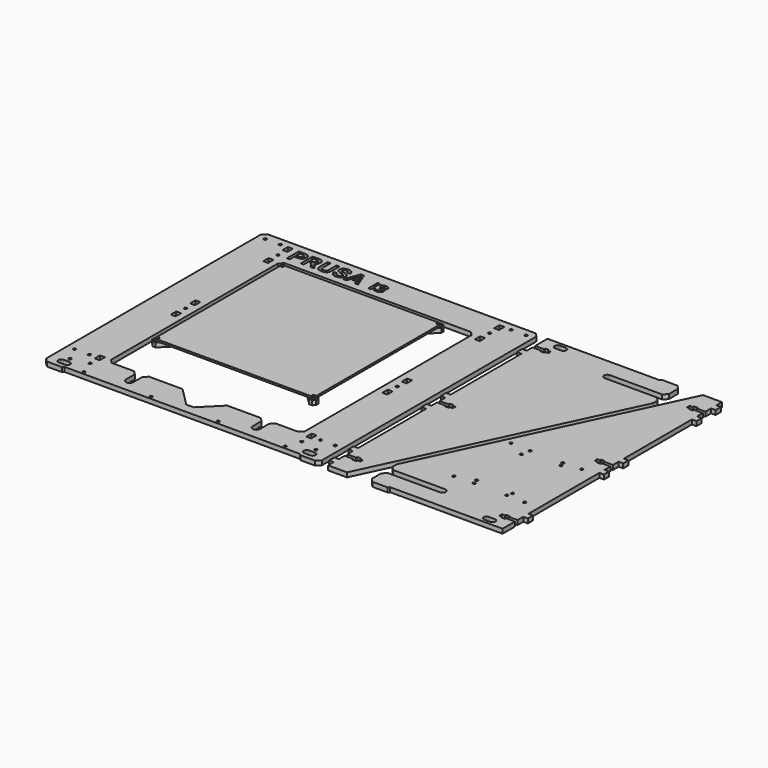
from build123d import *

# Parameters (mm, degrees)
F0_R      = 1.8000001267
F0_R_2    = 1.5000000378
F0_R_3    = 1.4999998994
F0_R_4    = 1.7999999046
F0_R_5    = 1.4999999613
F0_R_6    = 1.8000000971
F0_R_7    = 1.4999999898
F0_R_8    = 1.5000000892
F0_R_9    = 1.8000000239
F0_R_10   = 1.7999997796
F1_DEPTH  = 6
F0_R_11   = 1.7999994971
F0_R_12   = 1.7999997377
F0_R_13   = 1.7999997231
F0_R_14   = 1.7999999497
F0_R_15   = 1.7999998875
F0_W      = 6.5
F0_H      = 8.999999
F0_R_16   = 1.8000002366
F0_R_17   = 1.7999995187
F0_R_18   = 1.7999999665
F0_R_19   = 1.7999999244
F0_R_20   = 1.7992771584
F0_R_21   = 1.7999998402
F0_R_22   = 1.7999999635
F0_R_23   = 1.8000000095
F0_R_24   = 1.8000000791
F0_R_25   = 1.7999999132
F0_W_2    = 3.520249
F0_H_2    = 11.294971
F0_W_3    = 3.721407
F0_H_3    = 2.745794
F0_R_26   = 1.7999997826
F0_R_27   = 1.7999998721
F0_R_28   = 1.7999995143
F2_DEPTH  = 6
F3_DEPTH  = 6
F4_DEPTH  = 6
F20_R     = 1.8000001267
F20_R_2   = 1.5000000378
F20_R_3   = 1.4999998994
F20_R_4   = 1.7999999046
F20_R_5   = 1.8000000971
F20_R_6   = 1.4999999613
F20_R_7   = 1.7999997796
F20_R_8   = 1.8000000239
F20_R_9   = 1.4999999898
F20_R_10  = 1.5000000892
F21_DEPTH = 2.5


with BuildPart() as f1:
    # F0 (on Top) → F1 (new body)
    with BuildSketch(Plane.XY):
        Polygon((-250.541717, 132.96815), (-230.541719, 112.968151), (-230.541719, 92.968153), (-240.541718, 82.968154), (-240.541718, 44.968157), (-230.541719, 34.968158), (-230.541719, 24.968159), (-240.541718, 14.968159), (-240.541718, -23.031838), (-230.541719, -33.031837), (-230.541719, -53.031835), (-250.541717, -73.031834), (-250.541717, -77.031833), (-247.541717, -80.031833), (-245.471364, -80.031833), (-243.541718, -80.031833), (-218.54172, -55.031835), (-62.541732, -55.031835), (-37.541734, -80.031833), (-35.471381, -80.031833), (-33.541734, -80.031833), (-30.541735, -77.031833), (-30.541735, -73.031834), (-50.541733, -53.031835), (-70.541732, -33.031837), (-70.541732, -13.031838), (-50.541733, 6.96816), (-40.541734, 16.968159), (-40.541734, 42.968157), (-50.541733, 52.968156), (-70.541732, 72.968155), (-70.541732, 92.968153), (-30.541735, 132.96815), (-30.541735, 135.96815), (-30.541735, 136.96815), (-33.541734, 139.968149), (-37.541734, 139.968149), (-60.541732, 116.968151), (-62.541732, 114.968151), (-218.54172, 114.968151), (-243.541718, 139.968149), (-245.471364, 139.968149), (-245.541718, 139.968149), (-247.541717, 139.968149), (-250.541717, 136.96815), (-250.541717, 134.96815), align=None)
        with Locations((-245.0521000064, -74.521451574)):
            Circle(F0_R, mode=Mode.SUBTRACT)
        with Locations((-235.5417180947, -5.0318390947)):
            Circle(F0_R_2, mode=Mode.SUBTRACT)
        Polygon((-228.072453, 10.663678), (-227.576995, 10.831863), (-227.063824, 10.933939), (-226.541719, 10.96816), (-224.541719, 10.96816), (-224.019614, 10.933939), (-223.506443, 10.831863), (-223.010986, 10.663678), (-222.541719, 10.432261), (-222.106674, 10.141573), (-221.713292, 9.796587), (-221.368306, 9.403205), (-221.077618, 8.96816), (-220.846201, 8.498894), (-220.678016, 8.003436), (-220.57594, 7.490265), (-220.54172, 6.96816), (-220.54172, -16.031838), (-220.57594, -16.553943), (-220.678016, -17.067114), (-220.846201, -17.562572), (-221.077618, -18.031838), (-221.368306, -18.466884), (-221.713292, -18.860265), (-222.106674, -19.205251), (-222.541719, -19.49594), (-223.010986, -19.727356), (-223.506443, -19.895541), (-224.019614, -19.997617), (-224.541719, -20.031838), (-226.541719, -20.031838), (-227.063824, -19.997617), (-227.576995, -19.895541), (-228.072453, -19.727356), (-228.541719, -19.49594), (-228.976765, -19.205251), (-229.370146, -18.860265), (-229.715132, -18.466884), (-230.00582, -18.031838), (-230.237237, -17.562572), (-230.405422, -17.067114), (-230.507498, -16.553943), (-230.541719, -16.031838), (-230.541719, 6.96816), (-230.507498, 7.490265), (-230.405422, 8.003436), (-230.237237, 8.498894), (-230.00582, 8.96816), (-229.715132, 9.403205), (-229.370146, 9.796587), (-228.976765, 10.141573), (-228.541719, 10.432261), align=None, mode=Mode.SUBTRACT)
        with Locations((-215.5417201006, -5.0318391006)):
            Circle(F0_R_3, mode=Mode.SUBTRACT)
        with Locations((-36.0313519046, -74.5422155616)):
            Circle(F0_R_4, mode=Mode.SUBTRACT)
        Polygon((-112.541728, -5.031839), (-112.471375, -5.031839), (-72.471378, -45.031836), (-72.541731, -45.031836), (-208.471367, -45.031836), (-208.54172, -45.031836), (-168.541724, -5.031839), (-168.47137, -5.031839), align=None, mode=Mode.SUBTRACT)
        Polygon((-180.541723, 54.968156), (-160.541724, 34.968158), (-160.541724, 24.968159), (-180.541723, 4.96816), (-200.541721, 4.96816), (-220.54172, 24.968159), (-220.54172, 34.968158), (-200.541721, 54.968156), align=None, mode=Mode.SUBTRACT)
        Polygon((-220.57594, 77.497296), (-220.54172, 76.975191), (-220.54172, 53.975193), (-220.57594, 53.453088), (-220.678016, 52.939917), (-220.846201, 52.44446), (-221.077618, 51.975193), (-221.368306, 51.540148), (-221.713292, 51.146766), (-222.106674, 50.80178), (-222.541719, 50.511092), (-223.010986, 50.279675), (-223.506443, 50.11149), (-224.019614, 50.009414), (-224.541719, 49.975193), (-226.541719, 49.975193), (-227.063824, 50.009414), (-227.576995, 50.11149), (-228.072453, 50.279675), (-228.541719, 50.511092), (-228.976765, 50.80178), (-229.370146, 51.146766), (-229.715132, 51.540148), (-230.00582, 51.975193), (-230.237237, 52.44446), (-230.405422, 52.939917), (-230.507498, 53.453088), (-230.541719, 53.975193), (-230.541719, 76.975191), (-230.507498, 77.497296), (-230.405422, 78.010467), (-230.237237, 78.505925), (-230.00582, 78.975191), (-229.715132, 79.410237), (-229.370146, 79.803618), (-228.976765, 80.148604), (-228.541719, 80.439293), (-228.072453, 80.670709), (-227.576995, 80.838894), (-227.063824, 80.94097), (-226.541719, 80.975191), (-224.541719, 80.975191), (-224.019614, 80.94097), (-223.506443, 80.838894), (-223.010986, 80.670709), (-222.541719, 80.439293), (-222.106674, 80.148604), (-221.713292, 79.803618), (-221.368306, 79.410237), (-221.077618, 78.975191), (-220.846201, 78.505925), (-220.678016, 78.010467), align=None, mode=Mode.SUBTRACT)
        with Locations((-215.5417200387, 64.9681549613)):
            Circle(F0_R_5, mode=Mode.SUBTRACT)
        with Locations((-140.5047099189, 8.9745649783)):
            Circle(F0_R_6, mode=Mode.SUBTRACT)
        Polygon((-80.471377, 44.897803), (-70.541732, 34.968158), (-70.541732, 24.968159), (-80.471377, 15.038513), (-90.54173, 4.96816), (-100.541729, 4.96816), (-120.541728, 24.968159), (-120.541728, 34.968158), (-100.541729, 54.968156), (-90.54173, 54.968156), align=None, mode=Mode.SUBTRACT)
        with Locations((-65.5417320298, 29.9681581111)):
            Circle(F0_R_7, mode=Mode.SUBTRACT)
        Polygon((-60.23725, 16.300302), (-60.405436, 16.795759), (-60.507512, 17.308931), (-60.541732, 17.831036), (-60.541732, 40.831034), (-60.507512, 41.353138), (-60.405436, 41.86631), (-60.23725, 42.361767), (-60.005834, 42.831034), (-59.715146, 43.266079), (-59.37016, 43.659461), (-58.976778, 44.004447), (-58.541732, 44.295135), (-58.072466, 44.526551), (-57.577009, 44.694737), (-57.063837, 44.796813), (-56.541733, 44.831033), (-54.541733, 44.831033), (-54.019628, 44.796813), (-53.506457, 44.694737), (-53.010999, 44.526551), (-52.541733, 44.295135), (-52.106687, 44.004447), (-51.713306, 43.659461), (-51.36832, 43.266079), (-51.077631, 42.831034), (-50.846215, 42.361767), (-50.67803, 41.86631), (-50.575954, 41.353138), (-50.541733, 40.831034), (-50.541733, 17.831036), (-50.575954, 17.308931), (-50.67803, 16.795759), (-50.846215, 16.300302), (-51.077631, 15.831036), (-51.36832, 15.39599), (-51.713306, 15.002609), (-52.106687, 14.657622), (-52.541733, 14.366934), (-53.010999, 14.135518), (-53.506457, 13.967333), (-54.019628, 13.865256), (-54.541733, 13.831036), (-56.541733, 13.831036), (-57.063837, 13.865256), (-57.577009, 13.967333), (-58.072466, 14.135518), (-58.541732, 14.366934), (-58.976778, 14.657622), (-59.37016, 15.002609), (-59.715146, 15.39599), (-60.005834, 15.831036), align=None, mode=Mode.SUBTRACT)
        with Locations((-45.5417337398, 29.9681580892)):
            Circle(F0_R_8, mode=Mode.SUBTRACT)
        with Locations((-140.5047100183, 49.9543580054)):
            Circle(F0_R_9, mode=Mode.SUBTRACT)
        Polygon((-168.541724, 64.968155), (-208.54172, 104.968152), (-72.541731, 104.968152), (-100.541729, 76.968154), (-102.541729, 74.968155), (-112.541728, 64.968155), align=None, mode=Mode.SUBTRACT)
        with Locations((-245.0520997715, 134.4785323957)):
            Circle(F0_R_10, mode=Mode.SUBTRACT)
        with Locations((-36.0313519046, 134.4785324384)):
            Circle(F0_R_4, mode=Mode.SUBTRACT)
    extrude(amount=F1_DEPTH)


with BuildPart() as f2:
    # F0 (on Top) → F2 (new body)
    with BuildSketch(Plane.XY):
        Polygon((-310.471359, -180.223573), (-305.471359, -185.031825), (-285.471361, -185.031825), (-283.471361, -183.031825), (32.528614, -183.031825), (34.528614, -185.031825), (54.528612, -185.031825), (59.528612, -180.031825), (59.528612, 179.968146), (54.528612, 184.968146), (-305.471359, 184.968146), (-310.471359, 179.968146), align=None)
        Polygon((-298.308593, -176.030281), (-298.44489, -174.995005), (-298.308593, -173.959729), (-297.908992, -172.995005), (-297.273317, -172.166578), (-296.44489, -171.530903), (-295.480166, -171.131302), (-294.44489, -170.995005), (-286.448921, -170.995005), (-285.413645, -171.131302), (-284.448921, -171.530903), (-283.620494, -172.166578), (-282.98482, -172.995005), (-282.585218, -173.959729), (-282.448922, -174.995005), (-282.585218, -176.030281), (-282.98482, -176.995004), (-283.620494, -177.823432), (-284.448921, -178.459106), (-285.413645, -178.858708), (-286.38206, -178.995004), (-294.44489, -178.995004), (-295.480166, -178.858708), (-296.44489, -178.459106), (-297.273317, -177.823432), (-297.908992, -176.995004), align=None, mode=Mode.SUBTRACT)
        with Locations((-290.4955435214, -165.0249841753)):
            Circle(F0_R_11, mode=Mode.SUBTRACT)
        with Locations((-260.4713627791, -179.0318247377)):
            Circle(F0_R_12, mode=Mode.SUBTRACT)
        with Locations((-300.5024655416, -145.0111407047)):
            Circle(F0_R_13, mode=Mode.SUBTRACT)
        with Locations((-280.4886212463, -145.0111409312)):
            Circle(F0_R_14, mode=Mode.SUBTRACT)
        with Locations((-267.4881752491, -160.021523869)):
            Circle(F0_R_15, mode=Mode.SUBTRACT)
        with Locations((-267.471362, -143.8818855)):
            Rectangle(F0_W, F0_H, mode=Mode.SUBTRACT)
        with Locations((-170.47137, -179.031825)):
            Circle(F0_R_16, mode=Mode.SUBTRACT)
        with Locations((-80.4713767214, -179.0318250102)):
            Circle(F0_R_17, mode=Mode.SUBTRACT)
        with Locations((-267.471362, -16.1818385)):
            Rectangle(F0_W, F0_H, mode=Mode.SUBTRACT)
        with Locations((-267.4461272491, -0.034967869)):
            Circle(F0_R_15, mode=Mode.SUBTRACT)
        with BuildLine():
            Line((-220.471366, -145.031828), (-230.471365, -145.031828))
            Line((-230.471365, -145.031828), (-250.471364, -145.031828))
            Line((-250.471364, -145.031828), (-255.471363, -140.031828))
            Line((-255.471363, -140.031828), (-255.471363, 139.968149))
            Line((-255.471363, 139.968149), (-250.471364, 144.968149))
            Line((-250.471364, 144.968149), (-0.471384, 144.968149))
            Line((-0.471384, 144.968149), (4.528616, 139.968149))
            Line((4.528616, 139.968149), (4.528616, -140.031828))
            Line((4.528616, -140.031828), (-0.471384, -145.031828))
            Line((-0.471384, -145.031828), (-20.471382, -145.031828))
            Line((-20.471382, -145.031828), (-30.471381, -145.031828))
            Line((-30.471381, -145.031828), (-35.471381, -150.031827))
            Line((-35.471381, -150.031827), (-35.471381, -151.031827))
            Line((-35.471381, -151.031827), (-35.471381, -165.09737))
            ThreePointArc((-35.471381, -165.09737), (-40.4713805, -170.040455), (-45.47138, -165.09737))
            Line((-45.47138, -165.09737), (-45.47138, -151.031827))
            Line((-45.47138, -151.031827), (-45.47138, -150.031827))
            Line((-45.47138, -150.031827), (-50.47138, -145.031828))
            Line((-50.47138, -145.031828), (-95.471376, -145.031828))
            Line((-95.471376, -145.031828), (-120.471374, -170.031826))
            Line((-120.471374, -170.031826), (-130.471373, -170.031826))
            Line((-130.471373, -170.031826), (-155.471371, -145.031828))
            Line((-155.471371, -145.031828), (-200.471368, -145.031828))
            Line((-200.471368, -145.031828), (-205.471367, -150.031827))
            Line((-205.471367, -150.031827), (-205.471367, -151.031827))
            Line((-205.471367, -151.031827), (-205.471367, -165.09737))
            ThreePointArc((-205.471367, -165.09737), (-210.4713665, -170.040455), (-215.471366, -165.09737))
            Line((-215.471366, -165.09737), (-215.471366, -151.031827))
            Line((-215.471366, -151.031827), (-215.471366, -150.031827))
            Line((-215.471366, -150.031827), (-220.471366, -145.031828))
        make_face(mode=Mode.SUBTRACT)
        with Locations((9.5286156687, -179.0318249665)):
            Circle(F0_R_18, mode=Mode.SUBTRACT)
        Polygon((39.808295, -178.995004), (39.528613, -179.031825), (39.248931, -178.995004), (35.092604, -178.995004), (34.057328, -178.858708), (33.092604, -178.459106), (32.264177, -177.823432), (31.628502, -176.995004), (31.228901, -176.030281), (31.092604, -174.995005), (31.228901, -173.959729), (31.628502, -172.995005), (32.264177, -172.166578), (33.092604, -171.530903), (34.057328, -171.131302), (35.092604, -170.995005), (43.088573, -170.995005), (44.123849, -171.131302), (45.088573, -171.530903), (45.917, -172.166578), (46.552674, -172.995005), (46.952276, -173.959729), (47.088572, -174.995005), (46.952276, -176.030281), (46.552674, -176.995004), (45.917, -177.823432), (45.088573, -178.459106), (44.123849, -178.858708), (43.155434, -178.995004), align=None, mode=Mode.SUBTRACT)
        with Locations((39.5322381852, -165.0644330941)):
            Circle(F0_R_19, mode=Mode.SUBTRACT)
        with Locations((16.5286146148, -160.0318267747)):
            Circle(F0_R_20, mode=Mode.SUBTRACT)
        with Locations((16.528615, -143.8818855)):
            Rectangle(F0_W, F0_H, mode=Mode.SUBTRACT)
        with Locations((29.5428157968, -145.040793043)):
            Circle(F0_R_21, mode=Mode.SUBTRACT)
        with Locations((49.5216601809, -145.085589165)):
            Circle(F0_R_22, mode=Mode.SUBTRACT)
        with Locations((16.528615, -16.1818385)):
            Rectangle(F0_W, F0_H, mode=Mode.SUBTRACT)
        with Locations((16.5278919623, -0.0321059912)):
            Circle(F0_R_23, mode=Mode.SUBTRACT)
        with Locations((-267.471362, 16.1181595)):
            Rectangle(F0_W, F0_H, mode=Mode.SUBTRACT)
        with Locations((-267.471362, 138.9109205)):
            Rectangle(F0_W, F0_H, mode=Mode.SUBTRACT)
        with Locations((-267.4461271042, 154.9631776061)):
            Circle(F0_R_24, mode=Mode.SUBTRACT)
        with Locations((-300.466911165, 174.9816258191)):
            Circle(F0_R_22, mode=Mode.SUBTRACT)
        with Locations((-280.4484628948, 174.9816252938)):
            Circle(F0_R_25, mode=Mode.SUBTRACT)
        with Locations((-267.471362, 171.2109185)):
            Rectangle(F0_W, F0_H, mode=Mode.SUBTRACT)
        Polygon((-245.371364, 170.968147), (-246.171364, 171.368147), (-247.171364, 171.568147), (-251.471364, 171.568147), (-251.471364, 154.968148), (-255.471363, 154.968148), (-255.471363, 174.968147), (-247.071364, 174.968147), (-245.671364, 174.868147), (-244.171364, 174.668147), (-243.271364, 174.368147), (-241.971364, 173.468147), (-241.171364, 172.468147), (-240.471364, 171.168147), (-240.171364, 169.668147), (-240.171364, 167.968147), (-240.371364, 166.668147), (-240.971364, 165.368147), (-241.871364, 164.268147), (-243.371364, 163.268147), (-245.371364, 162.668148), (-247.071364, 162.568148), (-249.971364, 162.568148), (-249.971364, 165.968147), (-248.371364, 165.968147), (-247.071364, 165.968147), (-246.171364, 166.168147), (-245.271364, 166.668147), (-244.771364, 167.268147), (-244.371364, 168.068147), (-244.271364, 168.968147), (-244.471364, 169.768147), (-244.771364, 170.368147), align=None, mode=Mode.SUBTRACT)
        Polygon((-225.571366, 174.668147), (-224.671366, 174.368147), (-223.371366, 173.468147), (-222.571366, 172.468147), (-221.871366, 171.168147), (-221.571366, 169.668147), (-221.571366, 167.968147), (-221.771366, 166.668147), (-222.371366, 165.368147), (-223.271366, 164.268147), (-224.771366, 163.268147), (-224.000963, 162.579439), (-223.042386, 161.620862), (-218.861361, 154.972013), (-223.735825, 154.972013), (-228.977402, 162.568148), (-231.371365, 162.568148), (-231.371365, 165.968147), (-229.771365, 165.968147), (-228.471365, 165.968147), (-227.571365, 166.168147), (-226.671365, 166.668147), (-226.171366, 167.268147), (-225.771366, 168.068147), (-225.671366, 168.968147), (-225.871366, 169.768147), (-226.171366, 170.368147), (-226.771365, 170.968147), (-227.571365, 171.368147), (-228.571365, 171.568147), (-232.871365, 171.568147), (-232.871365, 154.968148), (-236.871365, 154.968148), (-236.871365, 174.968147), (-228.471365, 174.968147), (-227.071365, 174.868147), align=None, mode=Mode.SUBTRACT)
        Polygon((-204.890407, 161.30389), (-204.768035, 163.017091), (-204.792509, 174.960546), (-200.729777, 174.960546), (-200.705303, 166.1498), (-200.705303, 162.233913), (-201.047943, 159.468318), (-201.782171, 157.422532), (-202.932463, 156.296714), (-204.254075, 155.440114), (-206.358864, 154.779308), (-208.977613, 154.583514), (-211.596363, 154.926154), (-213.334038, 155.562486), (-214.582227, 156.394612), (-215.51225, 157.495955), (-216.099633, 158.695195), (-216.491221, 160.359447), (-216.71149, 163.981642), (-216.671366, 174.968147), (-212.624283, 174.960546), (-212.624283, 170.13911), (-212.648757, 162.184965), (-212.330592, 160.27597), (-211.52294, 159.052255), (-210.299225, 158.318027), (-208.806293, 158.073284), (-207.36231, 158.171181), (-206.16307, 158.685141), (-205.257521, 159.566216), align=None, mode=Mode.SUBTRACT)
        Polygon((-186.984419, 162.909443), (-191.551909, 164.025941), (-194.393903, 165.294688), (-195.814901, 166.563435), (-196.626899, 168.339682), (-196.829898, 170.318927), (-196.423899, 171.638425), (-195.205902, 173.465421), (-193.328156, 174.632668), (-190.689161, 175.241667), (-189.014415, 175.241667), (-186.882919, 175.089417), (-184.852924, 174.328169), (-183.279677, 173.211671), (-182.163179, 171.232426), (-181.75718, 169.25318), (-185.825395, 169.00272), (-186.119086, 170.294962), (-186.647731, 171.146668), (-187.793128, 171.792789), (-189.085371, 171.998373), (-190.465721, 171.939635), (-191.493641, 171.675312), (-192.345346, 171.176037), (-192.815253, 170.471177), (-192.820657, 169.709929), (-192.516157, 168.796431), (-190.181662, 167.781433), (-186.62917, 166.867935), (-183.634926, 165.700687), (-182.01093, 163.924441), (-181.300431, 161.894445), (-181.300431, 159.356951), (-182.315429, 157.428455), (-184.446924, 155.550709), (-187.745667, 154.73871), (-190.283162, 154.63721), (-192.922157, 155.195459), (-195.408901, 156.717956), (-196.880648, 159.103201), (-197.489647, 161.386946), (-193.581905, 161.742196), (-193.378906, 160.879447), (-192.465408, 159.306201), (-190.993661, 158.392703), (-189.065165, 158.037453), (-187.441168, 158.189703), (-186.223171, 158.900202), (-185.411172, 159.965949), (-185.360423, 161.133197), (-185.715672, 162.148195), align=None, mode=Mode.SUBTRACT)
        Polygon((-175.565693, 154.94171), (-179.930184, 154.94171), (-172.06395, 174.886418), (-167.800959, 174.886418), (-159.883976, 154.99246), (-164.197717, 155.04321), (-165.923213, 159.55995), (-172.774449, 159.55995), (-171.607201, 162.858693), (-167.242711, 162.909443), (-170.033955, 170.217428), align=None, mode=Mode.SUBTRACT)
        with Locations((-144.4952965, 160.6156335)):
            Rectangle(F0_W_2, F0_H_2, mode=Mode.SUBTRACT)
        with Locations((-144.4952965, 169.245273)):
            Rectangle(F0_W_3, F0_H_3, mode=Mode.SUBTRACT)
        Polygon((-129.311708, 160.611862), (-129.237531, 159.816034), (-129.339367, 158.767503), (-129.644874, 157.814521), (-130.14651, 156.977205), (-130.83673, 156.275669), (-131.700448, 155.716201), (-132.702462, 155.305086), (-133.890546, 155.052383), (-135.312475, 154.968148), (-136.938076, 155.041068), (-138.314745, 155.259826), (-140.35146, 155.913586), (-140.35146, 159.162273), (-139.989378, 159.162273), (-139.092971, 158.674468), (-138.053241, 158.257067), (-136.99088, 157.970418), (-136.026583, 157.874868), (-134.844785, 157.970418), (-134.257658, 158.122543), (-133.773624, 158.387819), (-133.225471, 159.006377), (-133.070831, 159.45018), (-133.019285, 160.047365), (-133.092204, 160.634492), (-133.310962, 161.068237), (-133.650415, 161.376259), (-134.085417, 161.586216), (-135.24207, 161.777316), (-136.428897, 161.797431), (-137.0726, 161.797431), (-137.0726, 164.432589), (-136.479186, 164.432589), (-135.221955, 164.492936), (-134.246343, 164.734325), (-133.617727, 165.267391), (-133.448001, 165.669705), (-133.391425, 166.192714), (-133.444229, 166.603829), (-133.60264, 166.931966), (-134.125649, 167.379541), (-134.970508, 167.620929), (-135.795252, 167.681276), (-136.921732, 167.550524), (-138.038154, 167.218615), (-138.923245, 166.801214), (-139.607179, 166.413987), (-139.918973, 166.413987), (-139.918973, 169.622442), (-137.831968, 170.261116), (-136.505588, 170.491189), (-135.15155, 170.567881), (-133.903119, 170.510048), (-132.833214, 170.33655), (-131.924236, 170.052415), (-131.158581, 169.662674), (-130.489734, 169.125836), (-130.011986, 168.46076), (-129.725337, 167.685048), (-129.629788, 166.816301), (-129.814601, 165.618159), (-130.36904, 164.578428), (-131.225215, 163.787629), (-132.315235, 163.336283), (-132.315235, 163.195473), (-131.274247, 162.923911), (-130.283548, 162.300324), (-129.869919, 161.851492), (-129.534238, 161.28951), align=None, mode=Mode.SUBTRACT)
        with Locations((16.528615, 16.1181595)):
            Rectangle(F0_W, F0_H, mode=Mode.SUBTRACT)
        with Locations((16.528615, 138.9109205)):
            Rectangle(F0_W, F0_H, mode=Mode.SUBTRACT)
        with Locations((16.5406584929, 154.9565645258)):
            Circle(F0_R_26, mode=Mode.SUBTRACT)
        with Locations((16.528615, 171.2109185)):
            Rectangle(F0_W, F0_H, mode=Mode.SUBTRACT)
        with Locations((29.5318830591, 174.9585058537)):
            Circle(F0_R_27, mode=Mode.SUBTRACT)
        with Locations((49.5062103181, 174.9915214958)):
            Circle(F0_R_28, mode=Mode.SUBTRACT)
    extrude(amount=F2_DEPTH)


with BuildPart() as f3:
    # F0 (on Top) → F3 (new body)
    with BuildSketch(Plane.XY):
        Polygon((71.784121, 2.231839), (83.78412, 2.231839), (83.78412, 4.031839), (88.884119, 4.031839), (88.884119, 2.231839), (92.884119, 2.231839), (92.884119, -2.16816), (88.884119, -2.16816), (88.884119, -3.96816), (83.78412, -3.96816), (83.78412, -2.16816), (71.784121, -2.16816), (71.784121, -11.71816), (65.684121, -11.71816), (65.684121, -20.518159), (71.784121, -20.518159), (71.784121, -134.510921), (65.684121, -134.510921), (65.684121, -143.31092), (71.784121, -143.31092), (71.784121, -152.853118), (83.78412, -152.853118), (83.78412, -151.053118), (88.884119, -151.053118), (88.884119, -152.853118), (92.884119, -152.853118), (92.884119, -157.253118), (88.884119, -157.253118), (88.884119, -159.053117), (83.78412, -159.053117), (83.78412, -157.253118), (71.784121, -157.253118), (71.784121, -166.810919), (65.684121, -166.810919), (65.684121, -175.610918), (71.784121, -175.610918), (71.784121, -184.968146), (97.184119, -184.968146), (249.584106, 138.031828), (249.584106, 145.631828), (244.584107, 150.631827), (174.584112, 150.631827), (173.445309, 150.781754), (172.384113, 151.221316), (171.472843, 151.920557), (170.773601, 152.831827), (170.334039, 153.893023), (170.184113, 155.031827), (170.334039, 156.170631), (170.773601, 157.231827), (171.472843, 158.143097), (172.384113, 158.842339), (173.445309, 159.2819), (174.584112, 159.431827), (244.584107, 159.431827), (249.584106, 164.431826), (249.584106, 180.031825), (244.584107, 185.031825), (224.584108, 185.031825), (222.584108, 183.031825), (71.784121, 183.031825), (71.784121, 162.237385), (83.78412, 162.237385), (83.78412, 164.037385), (88.884119, 164.037385), (88.884119, 162.237385), (92.884119, 162.237385), (92.884119, 157.837386), (88.884119, 157.837386), (88.884119, 156.037386), (83.78412, 156.037386), (83.78412, 157.837386), (71.784121, 157.837386), (71.784121, 148.281885), (65.684121, 148.281885), (65.684121, 139.481886), (71.784121, 139.481886), (71.784121, 20.581838), (65.684121, 20.581838), (65.684121, 11.781839), (71.784121, 11.781839), align=None)
        Polygon((87.857315, 176.067102), (88.256916, 177.031825), (88.892591, 177.860252), (89.721018, 178.495927), (90.685742, 178.895528), (91.721018, 179.031825), (99.783848, 179.031825), (100.752263, 178.895528), (101.716987, 178.495927), (102.545414, 177.860252), (103.181088, 177.031825), (103.58069, 176.067102), (103.716987, 175.031825), (103.58069, 173.996549), (103.181088, 173.031826), (102.545414, 172.203399), (101.716987, 171.567724), (100.752263, 171.168122), (99.716987, 171.031826), (91.721018, 171.031826), (90.685742, 171.168122), (89.721018, 171.567724), (88.892591, 172.203399), (88.256916, 173.031826), (87.857315, 173.996549), (87.721018, 175.031825), align=None, mode=Mode.SUBTRACT)
    extrude(amount=F3_DEPTH)


with BuildPart() as f4:
    # F0 (on Top) → F4 (new body)
    with BuildSketch(Plane.XY):
        Polygon((304.371359, 134.510921), (310.471359, 134.510921), (310.471359, 143.31092), (304.371359, 143.31092), (304.371359, 152.853118), (292.37136, 152.853118), (292.37136, 151.053118), (287.271361, 151.053118), (287.271361, 152.853118), (283.271361, 152.853118), (283.271361, 157.253118), (287.271361, 157.253118), (287.271361, 159.053117), (292.37136, 159.053117), (292.37136, 157.253118), (304.371359, 157.253118), (304.371359, 166.810919), (310.471359, 166.810919), (310.471359, 175.610918), (304.371359, 175.610918), (304.371359, 184.968146), (278.971361, 184.968146), (126.571374, -138.031828), (126.571374, -145.631828), (131.571373, -150.631827), (201.571368, -150.631827), (202.710171, -150.781754), (203.771367, -151.221316), (204.682637, -151.920557), (205.381879, -152.831827), (205.821441, -153.893023), (205.971367, -155.031827), (205.821441, -156.170631), (205.381879, -157.231827), (204.682637, -158.143097), (203.771367, -158.842339), (202.710171, -159.2819), (201.571368, -159.431827), (131.571373, -159.431827), (126.571374, -164.431826), (126.571374, -180.031825), (131.571373, -185.031825), (151.571372, -185.031825), (153.571371, -183.031825), (304.371359, -183.031825), (304.371359, -162.237385), (292.37136, -162.237385), (292.37136, -164.037385), (287.271361, -164.037385), (287.271361, -162.237385), (283.271361, -162.237385), (283.271361, -157.837386), (287.271361, -157.837386), (287.271361, -156.037386), (292.37136, -156.037386), (292.37136, -157.837386), (304.371359, -157.837386), (304.371359, -148.281885), (310.471359, -148.281885), (310.471359, -139.481886), (304.371359, -139.481886), (304.371359, -20.581838), (310.471359, -20.581838), (310.471359, -11.781839), (304.371359, -11.781839), (304.371359, -2.231839), (292.37136, -2.231839), (292.37136, -4.031839), (287.271361, -4.031839), (287.271361, -2.231839), (283.271361, -2.231839), (283.271361, 2.16816), (287.271361, 2.16816), (287.271361, 3.96816), (292.37136, 3.96816), (292.37136, 2.16816), (304.371359, 2.16816), (304.371359, 11.71816), (310.471359, 11.71816), (310.471359, 20.518159), (304.371359, 20.518159), align=None)
        Polygon((272.974392, -173.031826), (273.610066, -172.203399), (274.438493, -171.567724), (275.403217, -171.168122), (276.438493, -171.031826), (284.434462, -171.031826), (285.469738, -171.168122), (286.434462, -171.567724), (287.262889, -172.203399), (287.898563, -173.031826), (288.298165, -173.996549), (288.434462, -175.031825), (288.298165, -176.067102), (287.898563, -177.031825), (287.262889, -177.860252), (286.434462, -178.495927), (285.469738, -178.895528), (284.434462, -179.031825), (276.371632, -179.031825), (275.403217, -178.895528), (274.438493, -178.495927), (273.610066, -177.860252), (272.974392, -177.031825), (272.57479, -176.067102), (272.438493, -175.031825), (272.57479, -173.996549), align=None, mode=Mode.SUBTRACT)
        Polygon((191.528115, -122.666255), (191.242008, -123.039006), (190.869175, -123.325006), (190.435023, -123.504765), (189.96914, -123.566031), (189.503275, -123.504631), (189.069175, -123.324748), (188.696424, -123.038641), (188.410423, -122.665808), (188.230665, -122.231657), (188.169398, -121.765774), (188.230798, -121.299908), (188.410681, -120.865809), (188.696788, -120.493057), (189.069621, -120.207057), (189.503772, -120.027299), (189.890508, -119.97644), (189.969655, -119.966032), (190.435521, -120.027432), (190.869621, -120.207315), (191.242372, -120.493422), (191.528372, -120.866255), (191.708131, -121.300406), (191.769398, -121.766289), (191.759457, -121.841715), (191.707997, -122.232155), align=None, mode=Mode.SUBTRACT)
        Polygon((216.069049, -122.781113), (215.634949, -122.60123), (215.262198, -122.315123), (214.976197, -121.94229), (214.796439, -121.508139), (214.735172, -121.042256), (214.796572, -120.57639), (214.976455, -120.14229), (215.262562, -119.769539), (215.635395, -119.483539), (216.069546, -119.30378), (216.535429, -119.242514), (217.001295, -119.303914), (217.435395, -119.483797), (217.808146, -119.769903), (218.094146, -120.142737), (218.273905, -120.576888), (218.327665, -120.985689), (218.335172, -121.042771), (218.329941, -121.082458), (218.273772, -121.508636), (218.093889, -121.942736), (217.807782, -122.315488), (217.434949, -122.601488), (217.000797, -122.781246), (216.534914, -122.842513), (216.480479, -122.835339), align=None, mode=Mode.SUBTRACT)
        Polygon((216.146044, -113.953689), (216.084643, -114.419555), (215.904761, -114.853655), (215.618654, -115.226406), (215.245821, -115.512406), (214.811669, -115.692165), (214.345786, -115.753432), (213.879921, -115.692031), (213.520433, -115.543066), (213.445821, -115.512148), (213.257926, -115.341578), (213.073069, -115.226042), (212.787069, -114.853209), (212.607311, -114.419057), (212.546044, -113.953174), (212.607444, -113.487309), (212.787327, -113.053209), (213.073434, -112.680457), (213.446267, -112.394457), (213.880418, -112.214699), (214.346301, -112.153432), (214.812167, -112.214832), (215.246267, -112.394715), (215.356511, -112.479333), (215.431123, -112.510251), (215.619018, -112.680822), (215.905018, -113.053655), (216.084777, -113.487806), align=None, mode=Mode.SUBTRACT)
        Polygon((261.739683, -122.315488), (261.36685, -122.601488), (260.932698, -122.781246), (260.466815, -122.842513), (260.41238, -122.835339), (260.00095, -122.781113), (259.56685, -122.60123), (259.194099, -122.315123), (258.908098, -121.94229), (258.72834, -121.508139), (258.67236, -121.082458), (258.667073, -121.042256), (258.728473, -120.57639), (258.908356, -120.14229), (259.194463, -119.769539), (259.567296, -119.483539), (260.001447, -119.30378), (260.46733, -119.242514), (260.54233, -119.252398), (260.933196, -119.303914), (261.367296, -119.483797), (261.740047, -119.769903), (262.026047, -120.142737), (262.205806, -120.576888), (262.259566, -120.985689), (262.267073, -121.042771), (262.205673, -121.508636), (262.02579, -121.942736), align=None, mode=Mode.SUBTRACT)
        Polygon((286.521445, -120.90983), (286.701204, -121.343981), (286.762471, -121.809864), (286.70107, -122.275729), (286.521188, -122.709829), (286.235081, -123.082581), (285.862248, -123.368581), (285.428096, -123.548339), (284.962213, -123.609606), (284.496348, -123.548206), (284.062248, -123.368323), (283.689497, -123.082216), (283.403496, -122.709383), (283.223738, -122.275232), (283.166727, -121.841715), (283.162471, -121.809349), (283.223871, -121.343483), (283.403754, -120.909383), (283.689861, -120.536632), (284.062694, -120.250632), (284.496845, -120.070873), (284.8905, -120.019105), (284.962728, -120.009606), (285.428594, -120.071007), (285.862694, -120.25089), (286.235445, -120.536996), align=None, mode=Mode.SUBTRACT)
        Polygon((261.333645, -112.751954), (261.706478, -112.465954), (262.14063, -112.286195), (262.606513, -112.224928), (263.072378, -112.286329), (263.271694, -112.368921), (263.326754, -112.376178), (263.506478, -112.466212), (263.879229, -112.752318), (264.165229, -113.125151), (264.344988, -113.559303), (264.406255, -114.025186), (264.344855, -114.491051), (264.164972, -114.925151), (263.878865, -115.297903), (263.506032, -115.583903), (263.07188, -115.763661), (262.605997, -115.824928), (262.195192, -115.770785), (262.140132, -115.763528), (261.960408, -115.673495), (261.706032, -115.583645), (261.333281, -115.297538), (261.047281, -114.924705), (260.867522, -114.490554), (260.806255, -114.024671), (260.867655, -113.558805), (261.047538, -113.124705), align=None, mode=Mode.SUBTRACT)
        Polygon((188.386226, -26.798544), (188.206467, -26.364393), (188.1452, -25.89851), (188.206601, -25.432644), (188.386483, -24.998544), (188.67259, -24.625793), (189.045423, -24.339793), (189.479575, -24.160034), (189.945458, -24.098767), (190.411323, -24.160168), (190.845423, -24.34005), (191.218175, -24.626157), (191.504175, -24.99899), (191.683933, -25.433142), (191.737693, -25.841943), (191.7452, -25.899025), (191.6838, -26.36489), (191.503917, -26.79899), (191.21781, -27.171741), (190.844977, -27.457742), (190.410826, -27.6375), (189.944943, -27.698767), (189.890508, -27.691593), (189.479077, -27.637367), (189.044977, -27.457484), (188.672226, -27.171377), align=None, mode=Mode.SUBTRACT)
        Polygon((213.41332, -37.449924), (213.847472, -37.270165), (214.313355, -37.208898), (214.77922, -37.270298), (215.21332, -37.450181), (215.428147, -37.615073), (215.476086, -37.634938), (215.586071, -37.736288), (215.872071, -38.109121), (216.05183, -38.543273), (216.113097, -39.009156), (216.051697, -39.475021), (215.871814, -39.909121), (215.585707, -40.281872), (215.212874, -40.567872), (214.778722, -40.747631), (214.312839, -40.808898), (213.846974, -40.747498), (213.460813, -40.58748), (213.412874, -40.567615), (213.302888, -40.466264), (213.040123, -40.281508), (212.754123, -39.908675), (212.574364, -39.474523), (212.513097, -39.00864), (212.574497, -38.542775), (212.75438, -38.108675), (213.040487, -37.735924), align=None, mode=Mode.SUBTRACT)
        Polygon((215.041861, -28.017839), (214.862102, -27.583687), (214.800835, -27.117804), (214.862235, -26.651939), (215.042118, -26.217839), (215.328225, -25.845088), (215.701058, -25.559088), (216.13521, -25.379329), (216.601093, -25.318062), (217.066958, -25.379462), (217.501058, -25.559345), (217.873809, -25.845452), (218.159809, -26.218285), (218.339568, -26.652437), (218.393328, -27.061238), (218.400835, -27.11832), (218.339435, -27.584185), (218.159552, -28.018285), (217.873445, -28.391036), (217.500612, -28.677036), (217.06646, -28.856795), (216.600577, -28.918062), (216.546142, -28.910887), (216.134712, -28.856662), (215.700612, -28.676779), (215.327861, -28.390672), align=None, mode=Mode.SUBTRACT)
        Polygon((263.848888, -33.981196), (263.476055, -34.267196), (263.041903, -34.446955), (262.57602, -34.508221), (262.110155, -34.446821), (261.749688, -34.29745), (261.676055, -34.266938), (261.525285, -34.125209), (261.303304, -33.980831), (261.017304, -33.607998), (260.837545, -33.173847), (260.776278, -32.707964), (260.837678, -32.242098), (261.017561, -31.807999), (261.303668, -31.435247), (261.676501, -31.149247), (262.110653, -30.969489), (262.576536, -30.908222), (263.042401, -30.969622), (263.476501, -31.149505), (263.62485, -31.26337), (263.698482, -31.293882), (263.849252, -31.435612), (264.135252, -31.808445), (264.315011, -32.242596), (264.376278, -32.708479), (264.314878, -33.174345), (264.134995, -33.608445), align=None, mode=Mode.SUBTRACT)
        Polygon((260.434781, -28.825843), (260.380346, -28.818669), (259.968916, -28.764443), (259.534816, -28.58456), (259.162065, -28.298453), (258.876065, -27.92562), (258.696306, -27.491469), (258.642393, -27.081508), (258.635039, -27.025586), (258.696439, -26.55972), (258.876322, -26.12562), (259.162429, -25.752869), (259.535262, -25.466869), (259.969414, -25.287111), (260.435297, -25.225844), (260.901162, -25.287244), (261.335262, -25.467127), (261.708013, -25.753234), (261.994013, -26.126067), (262.173772, -26.560218), (262.227532, -26.969019), (262.235039, -27.026101), (262.173639, -27.491967), (261.993756, -27.926067), (261.707649, -28.298818), (261.334816, -28.584818), (260.900664, -28.764577), (260.54233, -28.8117), align=None, mode=Mode.SUBTRACT)
        Polygon((286.677211, -25.387494), (286.738478, -25.853377), (286.677078, -26.319242), (286.497195, -26.753342), (286.211088, -27.126094), (285.838255, -27.412094), (285.404104, -27.591852), (284.938221, -27.653119), (284.8905, -27.64683), (284.472355, -27.591719), (284.038255, -27.411836), (283.665504, -27.125729), (283.379504, -26.752896), (283.199745, -26.318745), (283.138479, -25.852862), (283.199879, -25.386996), (283.379762, -24.952896), (283.665869, -24.580145), (284.038702, -24.294145), (284.472853, -24.114386), (284.938736, -24.053119), (285.404602, -24.11452), (285.838702, -24.294403), (286.211453, -24.580509), (286.497453, -24.953342), align=None, mode=Mode.SUBTRACT)
    extrude(amount=F4_DEPTH)


with BuildPart() as f21:
    # F20 (on face) → F21 (new body)
    with BuildSketch(Plane.XY.offset(6)):
        Polygon((-40.8115007118, 136.6983822882), (-240.2719512882, 136.6983822882), (-218.54172, 114.968151), (-62.541732, 114.968151), align=None)
        Polygon((-230.541719, 112.968151), (-247.3490610719, 129.7754939122), (-247.3490610719, -69.8391779122), (-230.541719, -53.031835), (-230.541719, -33.031837), (-240.541718, -23.031838), (-240.541718, 14.968159), (-230.541719, 24.968159), (-230.541719, 34.968158), (-240.541718, 44.968157), (-240.541718, 82.968154), (-230.541719, 92.968153), align=None)
        Polygon((-218.54172, -55.031835), (-240.8115027118, -77.3016177118), (-40.2719492882, -77.3016177118), (-62.541732, -55.031835), align=None)
        Polygon((-240.2719512882, 136.6983822882), (-247.3490610719, 136.6983822882), (-247.3490610719, 129.7754939122), (-230.541719, 112.968151), (-230.541719, 92.968153), (-240.541718, 82.968154), (-240.541718, 44.968157), (-230.541719, 34.968158), (-230.541719, 24.968159), (-240.541718, 14.968159), (-240.541718, -23.031838), (-230.541719, -33.031837), (-230.541719, -53.031835), (-247.3490610719, -69.8391779122), (-247.3490610719, -77.3016177118), (-240.8115027118, -77.3016177118), (-218.54172, -55.031835), (-62.541732, -55.031835), (-40.2719492882, -77.3016177118), (-33.3490610719, -77.3016177118), (-33.3490610719, -70.2245077878), (-50.541733, -53.031835), (-70.541732, -33.031837), (-70.541732, -13.031838), (-50.541733, 6.96816), (-40.541734, 16.968159), (-40.541734, 42.968157), (-70.541732, 72.968155), (-70.541732, 92.968153), (-33.3490610719, 130.1608239281), (-33.3490610719, 136.6983822882), (-40.8115007118, 136.6983822882), (-62.541732, 114.968151), (-218.54172, 114.968151), align=None)
        with Locations((-245.0521000064, -74.521451574)):
            Circle(F20_R, mode=Mode.SUBTRACT)
        with Locations((-235.5417180947, -5.0318390947)):
            Circle(F20_R_2, mode=Mode.SUBTRACT)
        Polygon((-230.237237, 8.498894), (-230.00582, 8.96816), (-229.715132, 9.403205), (-229.370146, 9.796587), (-228.976765, 10.141573), (-228.541719, 10.432261), (-228.072453, 10.663678), (-227.576995, 10.831863), (-227.063824, 10.933939), (-226.541719, 10.96816), (-224.541719, 10.96816), (-224.019614, 10.933939), (-223.506443, 10.831863), (-223.010986, 10.663678), (-222.541719, 10.432261), (-222.106674, 10.141573), (-221.713292, 9.796587), (-221.368306, 9.403205), (-221.077618, 8.96816), (-220.846201, 8.498894), (-220.678016, 8.003436), (-220.57594, 7.490265), (-220.54172, 6.96816), (-220.54172, -16.031838), (-220.57594, -16.553943), (-220.678016, -17.067114), (-220.846201, -17.562572), (-221.077618, -18.031838), (-221.368306, -18.466884), (-221.713292, -18.860265), (-222.106674, -19.205251), (-222.541719, -19.49594), (-223.010986, -19.727356), (-223.506443, -19.895541), (-224.019614, -19.997617), (-224.541719, -20.031838), (-226.541719, -20.031838), (-227.063824, -19.997617), (-227.576995, -19.895541), (-228.072453, -19.727356), (-228.541719, -19.49594), (-228.976765, -19.205251), (-229.370146, -18.860265), (-229.715132, -18.466884), (-230.00582, -18.031838), (-230.237237, -17.562572), (-230.405422, -17.067114), (-230.507498, -16.553943), (-230.541719, -16.031838), (-230.541719, 6.96816), (-230.507498, 7.490265), (-230.405422, 8.003436), align=None, mode=Mode.SUBTRACT)
        with Locations((-215.5417201006, -5.0318391006)):
            Circle(F20_R_3, mode=Mode.SUBTRACT)
        Polygon((-200.541721, 54.968156), (-180.541723, 54.968156), (-160.541724, 34.968158), (-160.541724, 24.968159), (-180.541723, 4.96816), (-200.541721, 4.96816), (-220.54172, 24.968159), (-220.54172, 34.968158), align=None, mode=Mode.SUBTRACT)
        with Locations((-36.0313519046, -74.5422155616)):
            Circle(F20_R_4, mode=Mode.SUBTRACT)
        Polygon((-208.54172, -45.031836), (-168.541724, -5.031839), (-112.471375, -5.031839), (-72.471378, -45.031836), align=None, mode=Mode.SUBTRACT)
        with Locations((-140.5047099189, 8.9745649783)):
            Circle(F20_R_5, mode=Mode.SUBTRACT)
        Polygon((-100.541729, 54.968156), (-90.54173, 54.968156), (-70.541732, 34.968158), (-70.541732, 24.968159), (-80.471377, 15.038513), (-90.54173, 4.96816), (-100.541729, 4.96816), (-120.541728, 24.968159), (-120.541728, 34.968158), align=None, mode=Mode.SUBTRACT)
        Polygon((-60.005834, 15.831036), (-60.23725, 16.300302), (-60.405436, 16.795759), (-60.507512, 17.308931), (-60.541732, 17.831036), (-60.541732, 40.831034), (-60.507512, 41.353138), (-60.405436, 41.86631), (-60.23725, 42.361767), (-60.005834, 42.831034), (-59.715146, 43.266079), (-59.37016, 43.659461), (-58.976778, 44.004447), (-58.541732, 44.295135), (-58.072466, 44.526551), (-57.577009, 44.694737), (-57.063837, 44.796813), (-56.541733, 44.831033), (-54.541733, 44.831033), (-54.019628, 44.796813), (-53.506457, 44.694737), (-53.010999, 44.526551), (-52.541733, 44.295135), (-52.106687, 44.004447), (-51.713306, 43.659461), (-51.36832, 43.266079), (-51.077631, 42.831034), (-50.846215, 42.361767), (-50.67803, 41.86631), (-50.575954, 41.353138), (-50.541733, 40.831034), (-50.541733, 17.831036), (-50.575954, 17.308931), (-50.67803, 16.795759), (-50.846215, 16.300302), (-51.077631, 15.831036), (-51.36832, 15.39599), (-51.713306, 15.002609), (-52.106687, 14.657622), (-52.541733, 14.366934), (-53.010999, 14.135518), (-53.506457, 13.967333), (-54.019628, 13.865256), (-54.541733, 13.831036), (-56.541733, 13.831036), (-57.063837, 13.865256), (-57.577009, 13.967333), (-58.072466, 14.135518), (-58.541732, 14.366934), (-58.976778, 14.657622), (-59.37016, 15.002609), (-59.715146, 15.39599), align=None, mode=Mode.SUBTRACT)
        Polygon((-220.678016, 78.010467), (-220.57594, 77.497296), (-220.54172, 76.975191), (-220.54172, 53.975193), (-220.57594, 53.453088), (-220.678016, 52.939917), (-220.846201, 52.44446), (-221.077618, 51.975193), (-221.368306, 51.540148), (-221.713292, 51.146766), (-222.106674, 50.80178), (-222.541719, 50.511092), (-223.010986, 50.279675), (-223.506443, 50.11149), (-224.019614, 50.009414), (-224.541719, 49.975193), (-226.541719, 49.975193), (-227.063824, 50.009414), (-227.576995, 50.11149), (-228.072453, 50.279675), (-228.541719, 50.511092), (-228.976765, 50.80178), (-229.370146, 51.146766), (-229.715132, 51.540148), (-230.00582, 51.975193), (-230.237237, 52.44446), (-230.405422, 52.939917), (-230.507498, 53.453088), (-230.541719, 53.975193), (-230.541719, 76.975191), (-230.507498, 77.497296), (-230.405422, 78.010467), (-230.237237, 78.505925), (-230.00582, 78.975191), (-229.715132, 79.410237), (-229.370146, 79.803618), (-228.976765, 80.148604), (-228.541719, 80.439293), (-228.072453, 80.670709), (-227.576995, 80.838894), (-227.063824, 80.94097), (-226.541719, 80.975191), (-224.541719, 80.975191), (-224.019614, 80.94097), (-223.506443, 80.838894), (-223.010986, 80.670709), (-222.541719, 80.439293), (-222.106674, 80.148604), (-221.713292, 79.803618), (-221.368306, 79.410237), (-221.077618, 78.975191), (-220.846201, 78.505925), align=None, mode=Mode.SUBTRACT)
        with Locations((-215.5417200387, 64.9681549613)):
            Circle(F20_R_6, mode=Mode.SUBTRACT)
        with Locations((-245.0520997715, 134.4785323957)):
            Circle(F20_R_7, mode=Mode.SUBTRACT)
        with Locations((-140.5047100183, 49.9543580054)):
            Circle(F20_R_8, mode=Mode.SUBTRACT)
        Polygon((-112.541728, 64.968155), (-168.541724, 64.968155), (-208.54172, 104.968152), (-72.541731, 104.968152), (-100.541729, 76.968154), (-102.541729, 74.968155), align=None, mode=Mode.SUBTRACT)
        with Locations((-65.5417320298, 29.9681581111)):
            Circle(F20_R_9, mode=Mode.SUBTRACT)
        with Locations((-45.5417337398, 29.9681580892)):
            Circle(F20_R_10, mode=Mode.SUBTRACT)
        with Locations((-36.0313519046, 134.4785324384)):
            Circle(F20_R_4, mode=Mode.SUBTRACT)
        Polygon((-33.3490610719, -70.2245077878), (-33.3490610719, 130.1608239281), (-70.541732, 92.968153), (-70.541732, 72.968155), (-40.541734, 42.968157), (-40.541734, 16.968159), (-50.541733, 6.96816), (-70.541732, -13.031838), (-70.541732, -33.031837), (-50.541733, -53.031835), align=None)
        Polygon((-160.541724, 34.968158), (-180.541723, 54.968156), (-200.541721, 54.968156), (-220.54172, 34.968158), (-220.54172, 24.968159), (-200.541721, 4.96816), (-180.541723, 4.96816), (-160.541724, 24.968159), align=None)
        Polygon((-208.54172, 104.968152), (-168.541724, 64.968155), (-112.541728, 64.968155), (-102.541729, 74.968155), (-100.541729, 76.968154), (-72.541731, 104.968152), align=None)
        Polygon((-70.541732, 34.968158), (-90.54173, 54.968156), (-100.541729, 54.968156), (-120.541728, 34.968158), (-120.541728, 24.968159), (-100.541729, 4.96816), (-90.54173, 4.96816), (-80.471377, 15.038513), (-70.541732, 24.968159), align=None)
        Polygon((-112.471375, -5.031839), (-168.541724, -5.031839), (-208.54172, -45.031836), (-72.471378, -45.031836), align=None)
        Polygon((-60.405436, 16.795759), (-60.23725, 16.300302), (-60.005834, 15.831036), (-59.715146, 15.39599), (-59.37016, 15.002609), (-58.976778, 14.657622), (-58.541732, 14.366934), (-58.072466, 14.135518), (-57.577009, 13.967333), (-57.063837, 13.865256), (-56.541733, 13.831036), (-54.541733, 13.831036), (-54.019628, 13.865256), (-53.506457, 13.967333), (-53.010999, 14.135518), (-52.541733, 14.366934), (-52.106687, 14.657622), (-51.713306, 15.002609), (-51.36832, 15.39599), (-51.077631, 15.831036), (-50.846215, 16.300302), (-50.67803, 16.795759), (-50.575954, 17.308931), (-50.541733, 17.831036), (-50.541733, 40.831034), (-50.575954, 41.353138), (-50.67803, 41.86631), (-50.846215, 42.361767), (-51.077631, 42.831034), (-51.36832, 43.266079), (-51.713306, 43.659461), (-52.106687, 44.004447), (-52.541733, 44.295135), (-53.010999, 44.526551), (-53.506457, 44.694737), (-54.019628, 44.796813), (-54.541733, 44.831033), (-56.541733, 44.831033), (-57.063837, 44.796813), (-57.577009, 44.694737), (-58.072466, 44.526551), (-58.541732, 44.295135), (-58.976778, 44.004447), (-59.37016, 43.659461), (-59.715146, 43.266079), (-60.005834, 42.831034), (-60.23725, 42.361767), (-60.405436, 41.86631), (-60.507512, 41.353138), (-60.541732, 40.831034), (-60.541732, 17.831036), (-60.507512, 17.308931), align=None)
        Polygon((-229.715132, 9.403205), (-230.00582, 8.96816), (-230.237237, 8.498894), (-230.405422, 8.003436), (-230.507498, 7.490265), (-230.541719, 6.96816), (-230.541719, -16.031838), (-230.507498, -16.553943), (-230.405422, -17.067114), (-230.237237, -17.562572), (-230.00582, -18.031838), (-229.715132, -18.466884), (-229.370146, -18.860265), (-228.976765, -19.205251), (-228.541719, -19.49594), (-228.072453, -19.727356), (-227.576995, -19.895541), (-227.063824, -19.997617), (-226.541719, -20.031838), (-224.541719, -20.031838), (-224.019614, -19.997617), (-223.506443, -19.895541), (-223.010986, -19.727356), (-222.541719, -19.49594), (-222.106674, -19.205251), (-221.713292, -18.860265), (-221.368306, -18.466884), (-221.077618, -18.031838), (-220.846201, -17.562572), (-220.678016, -17.067114), (-220.57594, -16.553943), (-220.54172, -16.031838), (-220.54172, 6.96816), (-220.57594, 7.490265), (-220.678016, 8.003436), (-220.846201, 8.498894), (-221.077618, 8.96816), (-221.368306, 9.403205), (-221.713292, 9.796587), (-222.106674, 10.141573), (-222.541719, 10.432261), (-223.010986, 10.663678), (-223.506443, 10.831863), (-224.019614, 10.933939), (-224.541719, 10.96816), (-226.541719, 10.96816), (-227.063824, 10.933939), (-227.576995, 10.831863), (-228.072453, 10.663678), (-228.541719, 10.432261), (-228.976765, 10.141573), (-229.370146, 9.796587), align=None)
        Polygon((-220.54172, 76.975191), (-220.57594, 77.497296), (-220.678016, 78.010467), (-220.846201, 78.505925), (-221.077618, 78.975191), (-221.368306, 79.410237), (-221.713292, 79.803618), (-222.106674, 80.148604), (-222.541719, 80.439293), (-223.010986, 80.670709), (-223.506443, 80.838894), (-224.019614, 80.94097), (-224.541719, 80.975191), (-226.541719, 80.975191), (-227.063824, 80.94097), (-227.576995, 80.838894), (-228.072453, 80.670709), (-228.541719, 80.439293), (-228.976765, 80.148604), (-229.370146, 79.803618), (-229.715132, 79.410237), (-230.00582, 78.975191), (-230.237237, 78.505925), (-230.405422, 78.010467), (-230.507498, 77.497296), (-230.541719, 76.975191), (-230.541719, 53.975193), (-230.507498, 53.453088), (-230.405422, 52.939917), (-230.237237, 52.44446), (-230.00582, 51.975193), (-229.715132, 51.540148), (-229.370146, 51.146766), (-228.976765, 50.80178), (-228.541719, 50.511092), (-228.072453, 50.279675), (-227.576995, 50.11149), (-227.063824, 50.009414), (-226.541719, 49.975193), (-224.541719, 49.975193), (-224.019614, 50.009414), (-223.506443, 50.11149), (-223.010986, 50.279675), (-222.541719, 50.511092), (-222.106674, 50.80178), (-221.713292, 51.146766), (-221.368306, 51.540148), (-221.077618, 51.975193), (-220.846201, 52.44446), (-220.678016, 52.939917), (-220.57594, 53.453088), (-220.54172, 53.975193), align=None)
        with Locations((-140.5047099189, 8.9745649783)):
            Circle(F20_R_5)
        with Locations((-140.5047100183, 49.9543580054)):
            Circle(F20_R_8)
        with Locations((-215.5417200387, 64.9681549613)):
            Circle(F20_R_6)
        with Locations((-215.5417201006, -5.0318391006)):
            Circle(F20_R_3)
        with Locations((-235.5417180947, -5.0318390947)):
            Circle(F20_R_2)
        with Locations((-65.5417320298, 29.9681581111)):
            Circle(F20_R_9)
        with Locations((-45.5417337398, 29.9681580892)):
            Circle(F20_R_10)
    extrude(amount=F21_DEPTH)


solid = Compound([f1.part, f2.part, f3.part, f4.part, f21.part])
